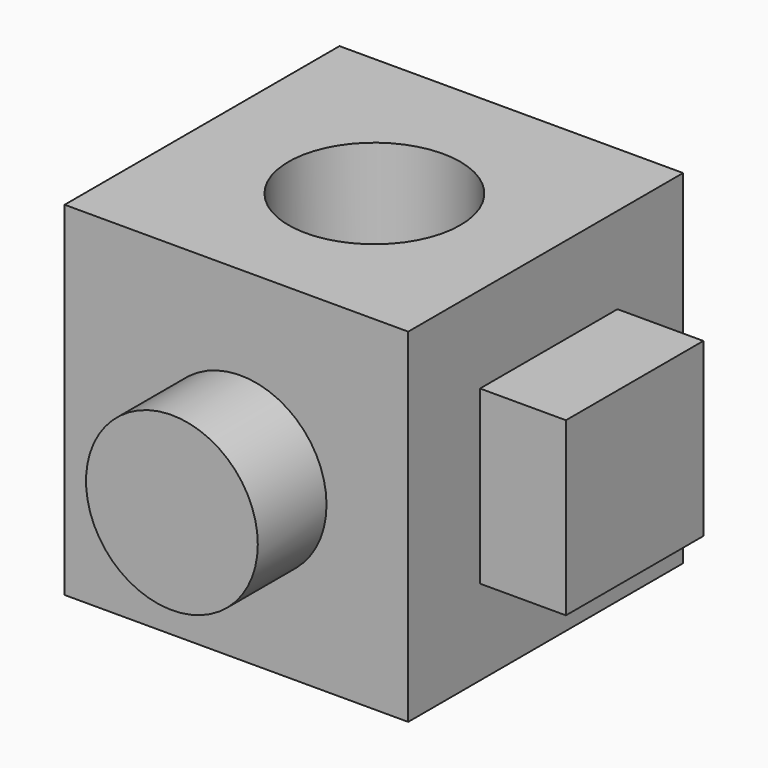
from build123d import *

# Parameters (mm, degrees)
F0_W     = 50.8
F0_H     = 50.8
F1_DEPTH = 50.8
F2_R     = 12.7
F3_DEPTH = 12.7
F4_W     = 25.4
F4_H     = 25.4
F5_DEPTH = 12.7
F6_R     = 12.7
F7_DEPTH = 19.812


with BuildPart() as f1:
    # F0 (on Front) → F1 (new body)
    with BuildSketch(Plane.XZ):
        with Locations((-6.018102, 1.05328)):
            Rectangle(F0_W, F0_H)
    extrude(amount=F1_DEPTH)

    # F2 (on face) → F3 (join)
    with BuildSketch(Plane.XZ.offset(50.8)):
        with Locations((-5.397914, 0)):
            Circle(F2_R)
    extrude(amount=F3_DEPTH)

    # F4 (on face) → F5 (join)
    with BuildSketch(Plane.YZ.offset(19.381898)):
        with Locations((-24.825621, 0.956289)):
            Rectangle(F4_W, F4_H)
    extrude(amount=F5_DEPTH)

    # F6 (on face) → F7 (cut)
    with BuildSketch(Plane.XY.offset(26.45328)):
        with Locations((-5.251253, -26.256265)):
            Circle(F6_R)
    extrude(amount=-F7_DEPTH, mode=Mode.SUBTRACT)


solid = f1.part
